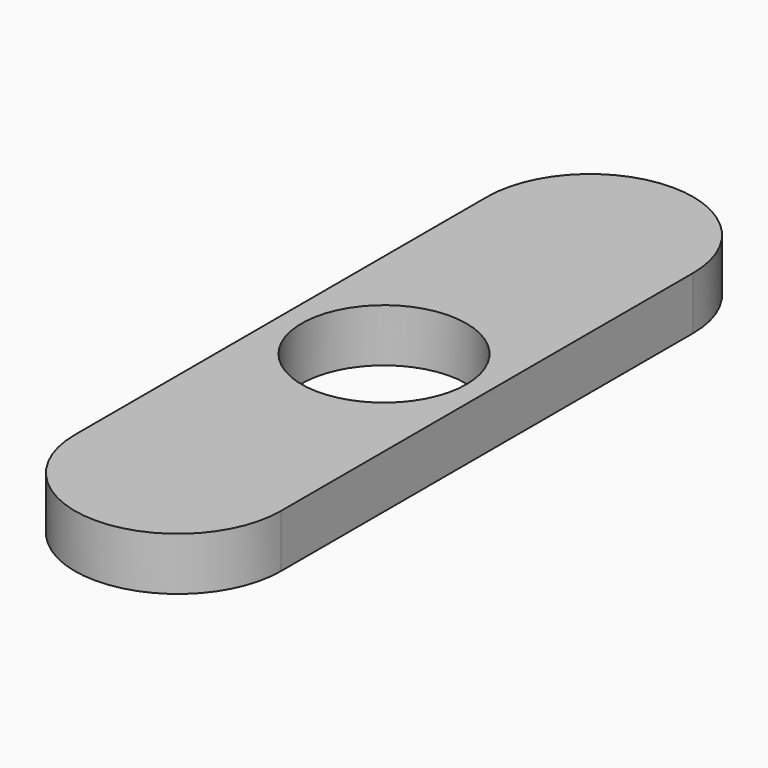
from build123d import *

# Parameters (mm, degrees)
F0_R     = 11.2
F1_DEPTH = 7.2


with BuildPart() as f1:
    # F0 (on Top) → F1 (new body)
    with BuildSketch(Plane.XY):
        with BuildLine():
            ThreePointArc((-14, 0), (0, 14), (14, 0))
            Line((14, 0), (14, 35))
            ThreePointArc((14, 35), (0, 49), (-14, 35))
            Line((-14, 35), (-14, 0))
        make_face()
        with BuildLine():
            ThreePointArc((-14, 0), (0, -14), (14, 0))
            ThreePointArc((14, 0), (0, 14), (-14, 0))
        make_face()
        Circle(F0_R, mode=Mode.SUBTRACT)
        with BuildLine():
            Line((14, -35), (14, 0))
            ThreePointArc((14, 0), (0, -14), (-14, 0))
            Line((-14, 0), (-14, -35))
            ThreePointArc((-14, -35), (0, -49), (14, -35))
        make_face()
    extrude(amount=F1_DEPTH)


solid = f1.part
